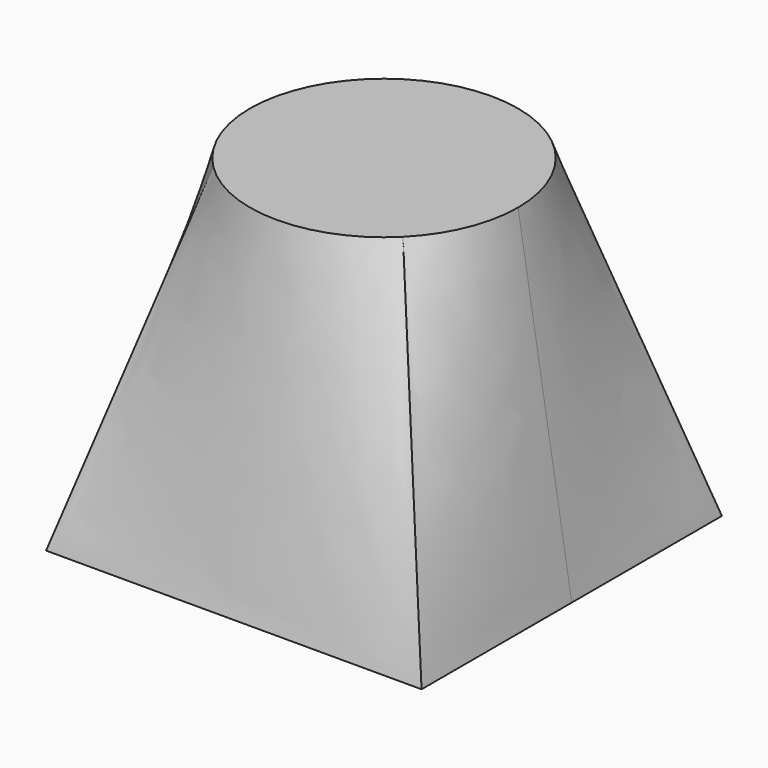
from build123d import *

# Parameters (mm, degrees)
SKETCH_W    = 22.72944
SKETCH_H    = 22.72944
SKETCH001_R = 8.118166


with BuildPart() as part:
    # Sketch → AdditiveLoft section 0
    with BuildSketch(Plane.XY):
        Rectangle(SKETCH_W, SKETCH_H)
    # Sketch001 → AdditiveLoft section 1
    with BuildSketch(Plane.XY.offset(20)):
        Circle(SKETCH001_R)
    loft()


solid = part.part
